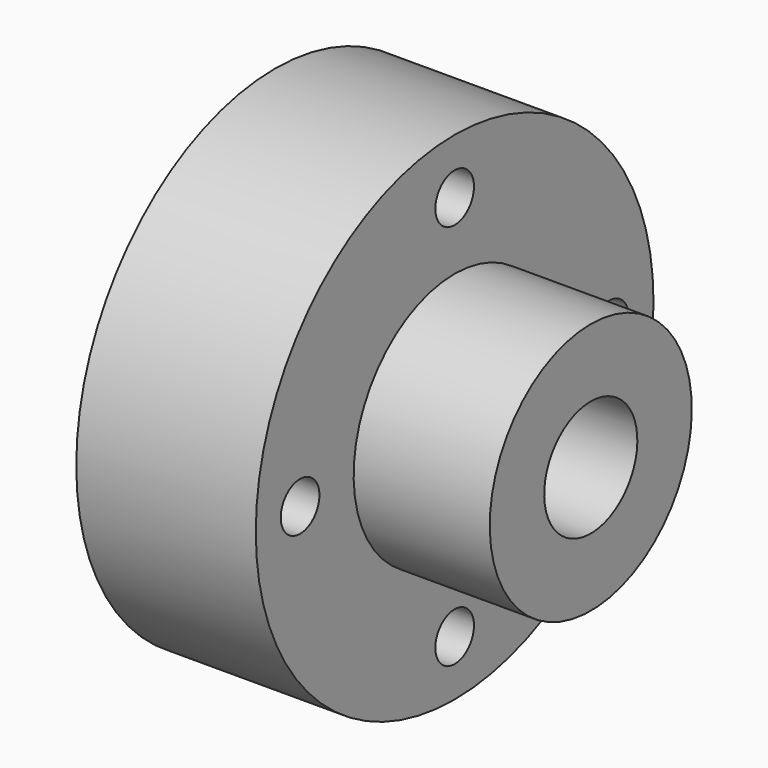
from build123d import *

# Parameters (mm, degrees)
F2_R     = 5
F3_DEPTH = 65.341817


with BuildPart() as f1:
    # F0 (on Front) → F1 (revolve)
    with BuildSketch(Plane.XZ):
        Polygon((0, 51.4559), (0, 45.307968), (34.767002, 6.023608), (44.309229, 6.023608), (44.309229, 12.047216), (65.340817, 12.047216), (65.340817, 26.136331), (37.162587, 26.136331), (37.162587, 51.4559), align=None)
    revolve(axis=Axis((22.154614, 0, 0), (1, 0, 0)))

    # F2 (on Right) → F3 (cut, through all)
    with BuildSketch(Plane.YZ):
        with Locations((0, 40)):
            Circle(F2_R)
        with Locations((-40, 0)):
            Circle(F2_R)
        with Locations((40, 0)):
            Circle(F2_R)
        with Locations((0, -40)):
            Circle(F2_R)
    extrude(amount=F3_DEPTH, mode=Mode.SUBTRACT)


solid = f1.part
